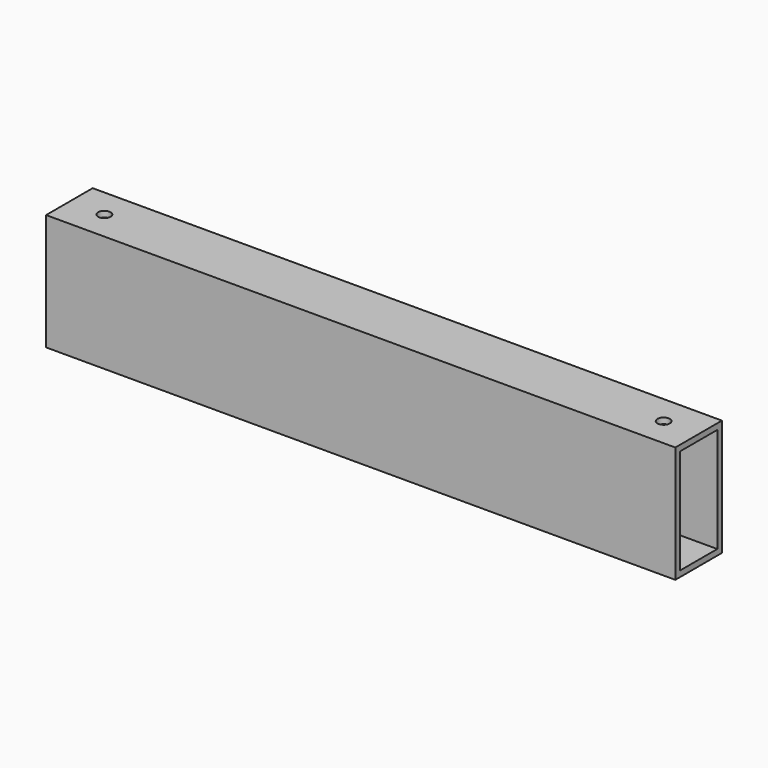
from build123d import *

# Parameters (mm, degrees)
F0_W     = 31.75
F0_H     = 63.5
F0_W_2   = 25.4
F0_H_2   = 57.15
F1_DEPTH = 342.9
F2_R     = 1.89865
F3_DEPTH = 3.175
F4_R     = 3.3782
F5_DEPTH = 3.175


with BuildPart() as f1:
    # F0 (on Right) → F1 (new body)
    with BuildSketch(Plane.YZ):
        Rectangle(F0_W, F0_H)
        Rectangle(F0_W_2, F0_H_2, mode=Mode.SUBTRACT)
    extrude(amount=F1_DEPTH)

    # F2 (on face) → F3 (cut, through all)
    with BuildSketch(Plane(origin=(0, 0, -31.75), x_dir=(1, 0, 0), z_dir=(0, 0, -1))):
        with Locations((117.475, 0)):
            Circle(F2_R)
        with Locations((301.625, 0)):
            Circle(F2_R)
    extrude(amount=-F3_DEPTH, mode=Mode.SUBTRACT)

    # F4 (on face) → F5 (cut, through all)
    with BuildSketch(Plane.XY.offset(31.75)):
        with Locations((19.05, 0)):
            Circle(F4_R)
        with Locations((323.85, 0)):
            Circle(F4_R)
    extrude(amount=-F5_DEPTH, mode=Mode.SUBTRACT)


with BuildPart() as f6_1:
    # F6: copy of F1
    add(f1.part)


solid = Compound([f1.part, f6_1.part])
